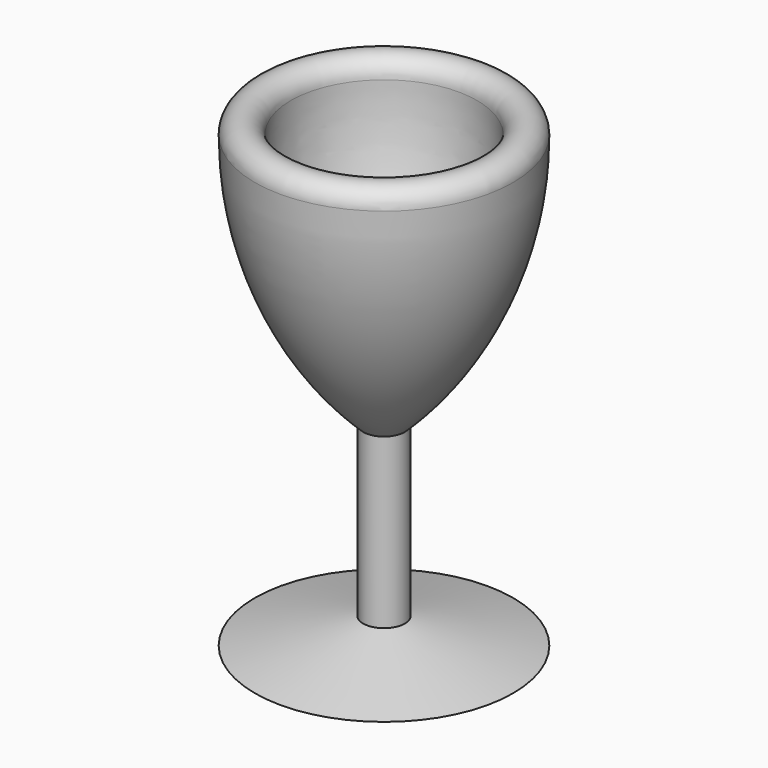
from build123d import *


with BuildPart() as f1:
    # F0 (on Front) → F1 (revolve)
    with BuildSketch(Plane.XZ):
        with BuildLine():
            ThreePointArc((0, 0), (-30.656296, 45.88039), (-41.421356, 100))
            ThreePointArc((-41.421356, 100), (-49.421356, 108), (-57.421356, 100))
            ThreePointArc((-57.421356, 100), (-44.883103, 38.434019), (-9.265629, -13.32478))
            Line((-9.265629, -13.32478), (-9.265629, -88.32478))
            Line((-9.265629, -88.32478), (-57.421356, -99.951174))
            Line((-57.421356, -99.951174), (-6.363961, -99.951174))
            Line((-6.363961, -99.951174), (-6.363961, -13.32478))
            ThreePointArc((-6.363961, -13.32478), (-42.630693, 38.256308), (-55.421356, 100))
            Line((-55.421356, 100), (-49.421356, 106))
            Line((-49.421356, 106), (-43.421356, 100))
            ThreePointArc((-43.421356, 100), (-32.504056, 45.115023), (-1.414214, -1.414214))
            Line((-1.414214, -1.414214), (-4.949747, -4.949747))
            ThreePointArc((-4.949747, -4.949747), (-37.123453, 43.201606), (-48.421356, 100))
            Line((-48.421356, 100), (-50.421356, 100))
            ThreePointArc((-50.421356, 100), (-38.971212, 42.436239), (-6.363961, -6.363961))
            Line((-6.363961, -6.363961), (0, -6.363961))
            Line((0, -6.363961), (0, 0))
        make_face()
        Polygon((0, -99.951174), (0, -6.363961), (-6.363961, -6.363961), (-1, -11.727922), (-1, -99.951174), align=None)
    revolve(axis=Axis((0, 0, -53.157567), (0, 0, 1)))


solid = f1.part
